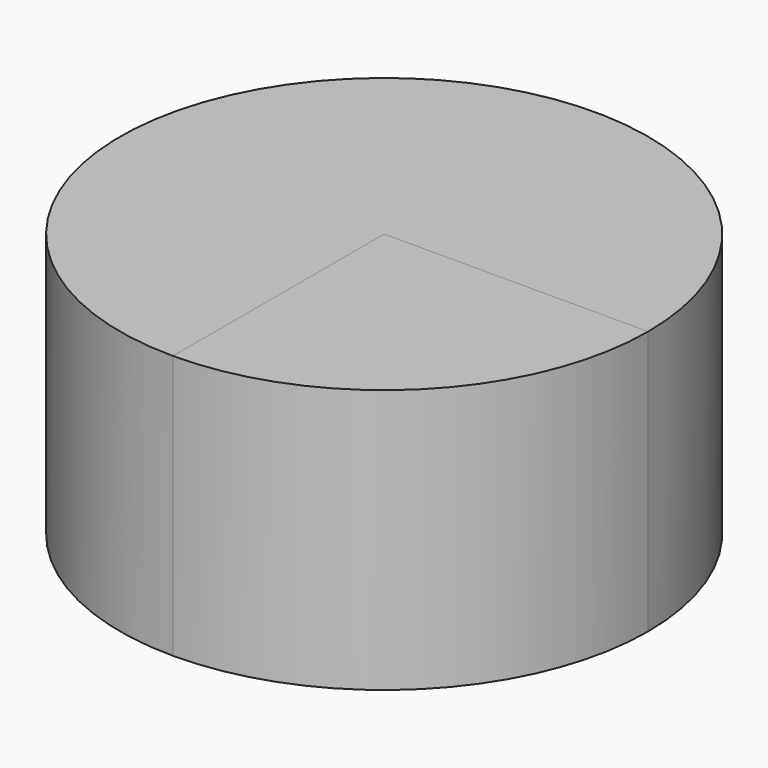
from build123d import *

# Parameters (mm, degrees)
CYLINDER_W        = 2
CYLINDER_H        = 2
CYLINDER_ANGLE    = 270
CYLINDER001_W     = 2
CYLINDER001_H     = 2
CYLINDER001_ANGLE = 90


with BuildPart() as cilindro:
    # Cylinder → Cylinder (revolve)
    with BuildSketch(Plane.XZ):
        with Locations((1, 1)):
            Rectangle(CYLINDER_W, CYLINDER_H)
    revolve(axis=Axis((0, 0, 0), (0, 0, 1)), revolution_arc=CYLINDER_ANGLE)


with BuildPart() as cilindro001:
    # Cylinder001 → Cylinder001 (revolve)
    with BuildSketch(Plane(origin=(0, 0, 0), x_dir=(0, -1, 0), z_dir=(-1, 0, 0))):
        with Locations((1, 1)):
            Rectangle(CYLINDER001_W, CYLINDER001_H)
    revolve(axis=Axis((0, 0, 0), (0, 0, 1)), revolution_arc=CYLINDER001_ANGLE)


solid = Compound([cilindro.part, cilindro001.part])
